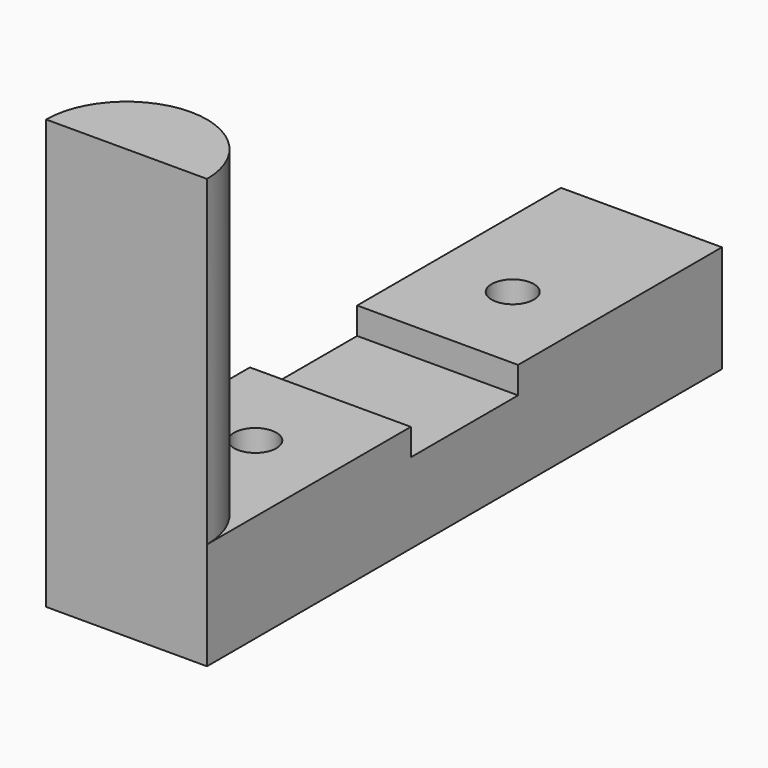
from build123d import *

# Parameters (mm, degrees)
F0_W     = 19.05
F0_H     = 76.2
F1_DEPTH = 12.7
F3_DEPTH = 38.1
F4_W     = 15.875
F4_H     = 6.35
F5_DEPTH = 19.051
F6_R     = 2.5
F7_DEPTH = 12.701


with BuildPart() as f1:
    # F0 (on Top) → F1 (new body)
    with BuildSketch(Plane.XY):
        Rectangle(F0_W, F0_H)
    extrude(amount=F1_DEPTH)

    # F2 (on face) → F3 (join)
    with BuildSketch(Plane.XY.offset(12.7)):
        with BuildLine():
            Line((-9.525, -38.1), (9.525, -38.1))
            ThreePointArc((9.525, -38.1), (0, -28.575), (-9.525, -38.1))
        make_face()
    extrude(amount=F3_DEPTH)

    # F4 (on face) → F5 (cut, through all)
    with BuildSketch(Plane(origin=(-9.525, 0, 0), x_dir=(0, -1, 0), z_dir=(-1, 0, 0))):
        with Locations((0, 12.7)):
            Rectangle(F4_W, F4_H)
    extrude(amount=-F5_DEPTH, mode=Mode.SUBTRACT)

    # F6 (on face) → F7 (cut, through all)
    with BuildSketch(Plane.XY.offset(12.7)):
        with Locations((0, -19.05)):
            Circle(F6_R)
        with Locations((0, 19.05)):
            Circle(F6_R)
    extrude(amount=-F7_DEPTH, mode=Mode.SUBTRACT)


solid = f1.part
